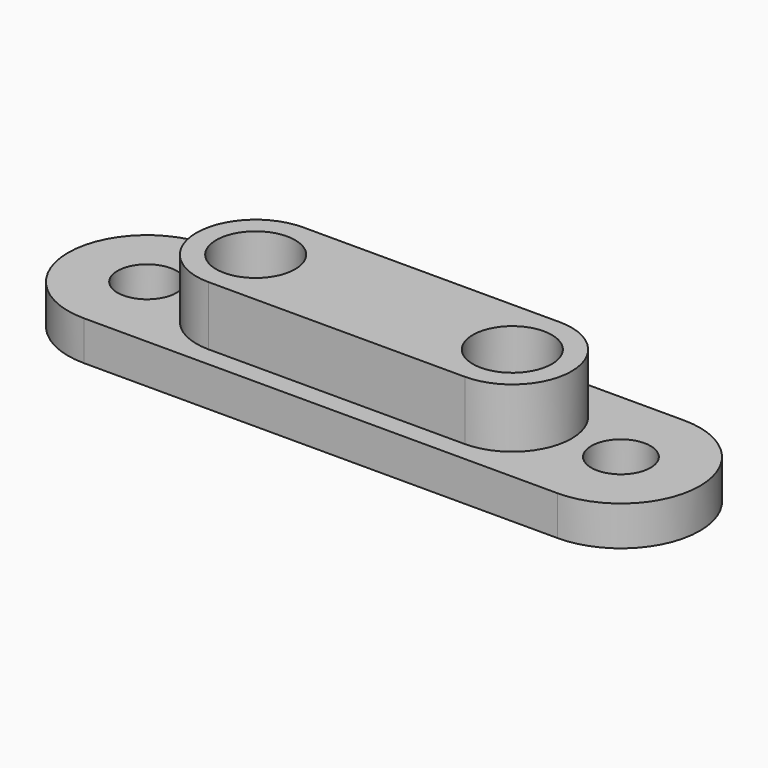
from build123d import *

# Parameters (mm, degrees)
F0_R     = 7.5
F1_DEPTH = 10
F2_R     = 10
F3_DEPTH = 25


with BuildPart() as f1:
    # F0 (on Top) → F1 (new body)
    with BuildSketch(Plane.XY):
        with BuildLine():
            Line((76.137352, 20), (-43.862648, 20))
            ThreePointArc((-43.862648, 20), (-63.862648, 0), (-43.862648, -20))
            Line((-43.862648, -20), (76.137352, -20))
            ThreePointArc((76.137352, -20), (96.137352, 0), (76.137352, 20))
        make_face()
        with Locations((-43.862648, 0)):
            Circle(F0_R, mode=Mode.SUBTRACT)
        with Locations((76.137352, 0)):
            Circle(F0_R, mode=Mode.SUBTRACT)
    extrude(amount=F1_DEPTH)

    # F2 (on Top) → F3 (join)
    with BuildSketch(Plane.XY):
        with BuildLine():
            Line((48.637352, 15), (-16.362648, 15))
            ThreePointArc((-16.362648, 15), (-31.362648, 0), (-16.362648, -15))
            Line((-16.362648, -15), (48.637352, -15))
            ThreePointArc((48.637352, -15), (63.637352, 0), (48.637352, 15))
        make_face()
        with Locations((-16.362648, 0)):
            Circle(F2_R, mode=Mode.SUBTRACT)
        with Locations((48.637352, 0)):
            Circle(F2_R, mode=Mode.SUBTRACT)
    extrude(amount=F3_DEPTH)


solid = f1.part
